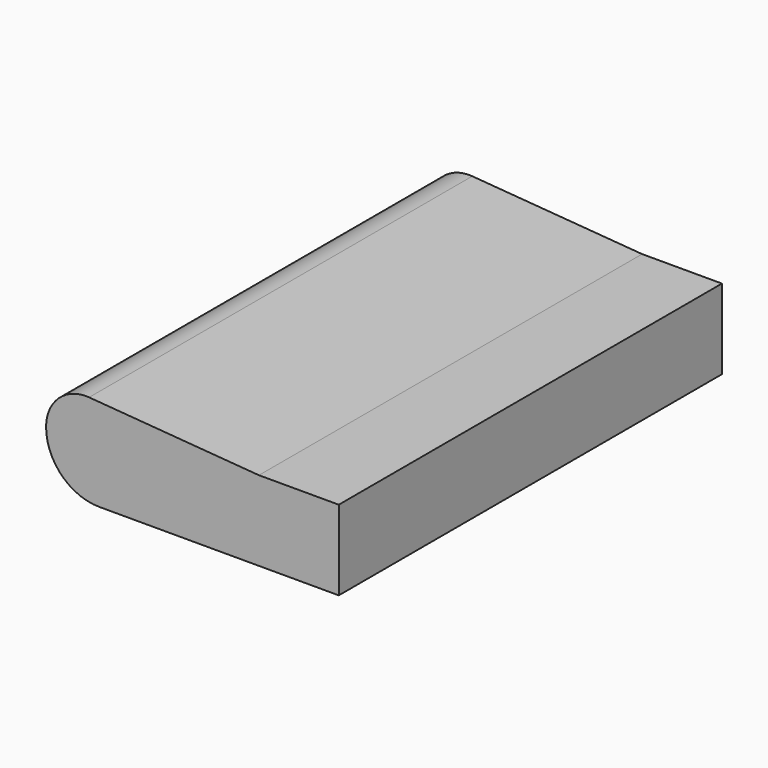
from build123d import *

# Parameters (mm, degrees)
F1_DEPTH = 60
F2_W     = 3
F2_H     = 3
F3_DEPTH = 60
F4_DEPTH = 42


with BuildPart() as f1:
    # F0 (on Front) → F1 (new body)
    with BuildSketch(Plane.XZ):
        with BuildLine():
            Line((-6, 0), (0, 0))
            Line((0, 0), (0, 3))
            Line((0, 3), (-6.3828637444, 3.5))
            ThreePointArc((-6.3828637444, 3.5), (-7.5200895217, 3.1043228005), (-8, 2))
            ThreePointArc((-8, 2), (-7.4142135624, 0.5857864376), (-6, 0))
        make_face()
    extrude(amount=F1_DEPTH)

    # F2 (on face) → F3 (join)
    with BuildSketch(Plane.XZ.offset(60)):
        with Locations((1.5, 1.5)):
            Rectangle(F2_W, F2_H)
    extrude(amount=-F3_DEPTH)

    # F4 (cut): a face of the model
    f4_faces = [f1.faces().sort_by_distance(p)[0] for p in [
        (-2.4940313384, -60, 1.6228930979),
    ]]
    extrude(f4_faces, amount=-F4_DEPTH, mode=Mode.SUBTRACT)


solid = f1.part
